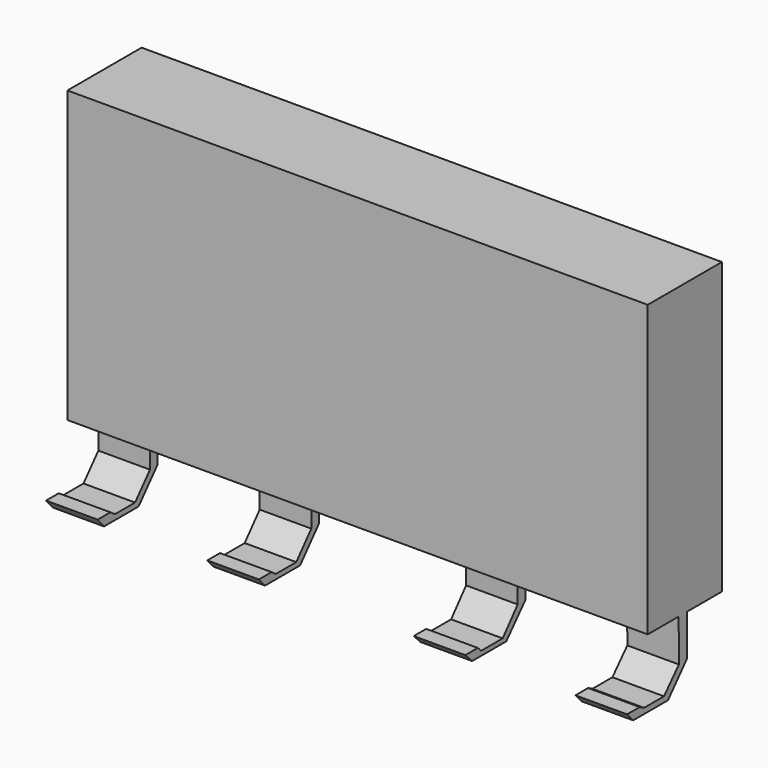
from build123d import *

# Parameters (mm, degrees)
F0_W      = 90
F0_H      = 45
F1_DEPTH  = 25
F3_DEPTH  = 8
F6_DEPTH  = 8
F8_DEPTH  = 8
F11_DEPTH = 8
F13_DEPTH = 100


with BuildPart() as f1:
    # F0 (on Front) → F1 (new body)
    with BuildSketch(Plane.XZ):
        with Locations((-17.625819491, 22.5)):
            Rectangle(F0_W, F0_H)
    extrude(amount=F1_DEPTH)

    # F2 (on face) → F3 (join)
    with BuildSketch(Plane(origin=(-62.625819491, 0, 0), x_dir=(0, -1, 0), z_dir=(-1, 0, 0))):
        Polygon((8.3801829397, 0), (6.88952161, 0), (6.88952161, -6.5082041547), (10.5835897848, -10.7495421544), (17.287639901, -10.7495421544), (18.5189954937, -9.3129593879), (16.0562843084, -9.3129593879), (15.1669709012, -9.9286381155), (11.2676769495, -9.9286381155), (8.3801829397, -6.6133668514), align=None)
    extrude(amount=-F3_DEPTH)

    # F5 (on offset) → F6 (join)
    with BuildSketch(Plane(origin=(-37.625819491, 0, 0), x_dir=(0, -1, 0), z_dir=(-1, 0, 0))):
        Polygon((8.3582568914, 0), (6.8190610036, 0), (6.8190610036, -6.4087822102), (10.5131296441, -10.6843244284), (17.3197928816, -10.6843244284), (18.5169447213, -9.3503547832), (16.0542316735, -9.3503547832), (15.233328566, -9.931829758), (11.2656243145, -9.931829758), (8.3582568914, -6.5456000157), align=None)
    extrude(amount=-F6_DEPTH)

    # F7 (on face) → F8 (join)
    with BuildSketch(Plane.YZ.offset(27.374180509)):
        Polygon((-6.7952279933, 0), (-8.3815939724, 0), (-8.3409175277, -6.5609556623), (-11.2289162353, -9.7336871549), (-15.0931403041, -9.7336871549), (-15.9473381937, -9.2862509191), (-18.3878988028, -9.2862509191), (-17.208294943, -10.5878841132), (-10.4560721666, -10.5878841132), (-6.7952279933, -6.438927725), align=None)
    extrude(amount=-F8_DEPTH)

    # F10 (on offset) → F11 (join)
    with BuildSketch(Plane.YZ.offset(2.374180509)):
        Polygon((-6.8191965111, 0), (-8.4298858419, 0), (-8.3435988054, -6.4949798398), (-11.248591356, -9.946456179), (-15.3903635219, -9.946456179), (-16.0806588829, -9.2849237844), (-18.4966921806, -9.2849237844), (-17.1736273915, -10.63675154), (-10.558295995, -10.63675154), (-6.8191965111, -6.4662178047), align=None)
    extrude(amount=-F11_DEPTH)

    # F12 (on face) → F13 (cut)
    with BuildSketch(Plane.YZ.offset(27.374180509)):
        Polygon((-14.3797518685, -0.9674453177), (-14.3797518685, 0), (-14.3797518685, 45.9536239505), (-25.8923433721, 45.9536239505), (-25.8923433721, -0.9674453177), align=None)
    extrude(amount=-F13_DEPTH, mode=Mode.SUBTRACT)


solid = f1.part
